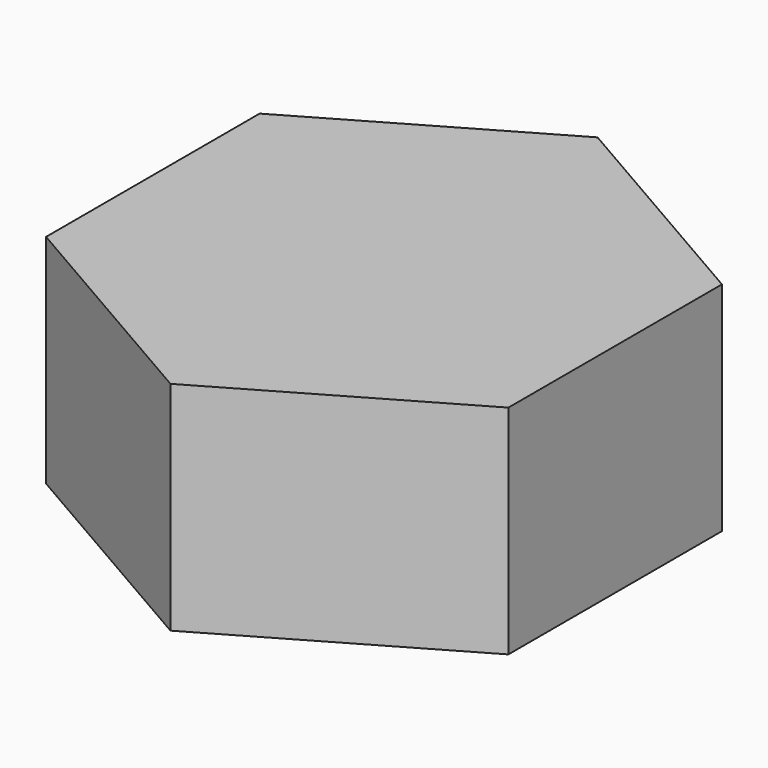
from build123d import *

# Parameters (mm, degrees)
PAD_DEPTH = 4.7


with BuildPart() as part:
    # Sketch → Pad (new body)
    with BuildSketch(Plane.XY):
        Polygon((5, 2.886751), (0, 5.773503), (-5, 2.886751), (-5, -2.886751), (0, -5.773503), (5, -2.886751), align=None)
    extrude(amount=PAD_DEPTH)


solid = part.part
